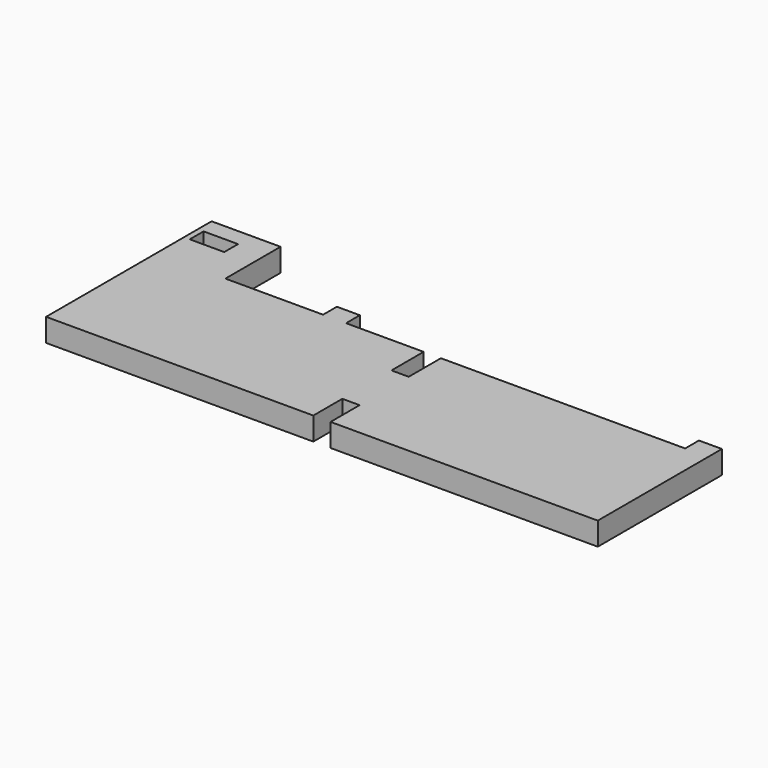
from build123d import *

# Parameters (mm, degrees)
F0_W     = 4
F0_H     = 3
F0_W_2   = 12
F0_H_2   = 12
F0_W_3   = 6
F0_W_4   = 3
F0_H_3   = 10
F1_DEPTH = 4


with BuildPart() as f1:
    # F0 (on Top) → F1 (new body)
    with BuildSketch(Plane.XY):
        with Locations((46, 13.5)):
            Rectangle(F0_W, F0_H)
        with Locations((-17, 13.5)):
            Rectangle(F0_W, F0_H)
        with Locations((-42, 18)):
            Rectangle(F0_W_2, F0_H_2)
        with Locations((-44, 19.5)):
            Rectangle(F0_W_3, F0_H, mode=Mode.SUBTRACT)
        Polygon((1.5, -12), (48, -12), (48, 12), (44, 12), (1.5, 12), (1.5, 5), (1.5, -5), (-1.5, -5), (-1.5, 5), (-1.5, 12), (-15, 12), (-19, 12), (-36, 12), (-48, 12), (-48, -12), (-1.5, -12), (-1.5, -5.687166), (1.5, -5.687166), align=None)
        Rectangle(F0_W_4, F0_H_3)
    extrude(amount=F1_DEPTH)


solid = f1.part
